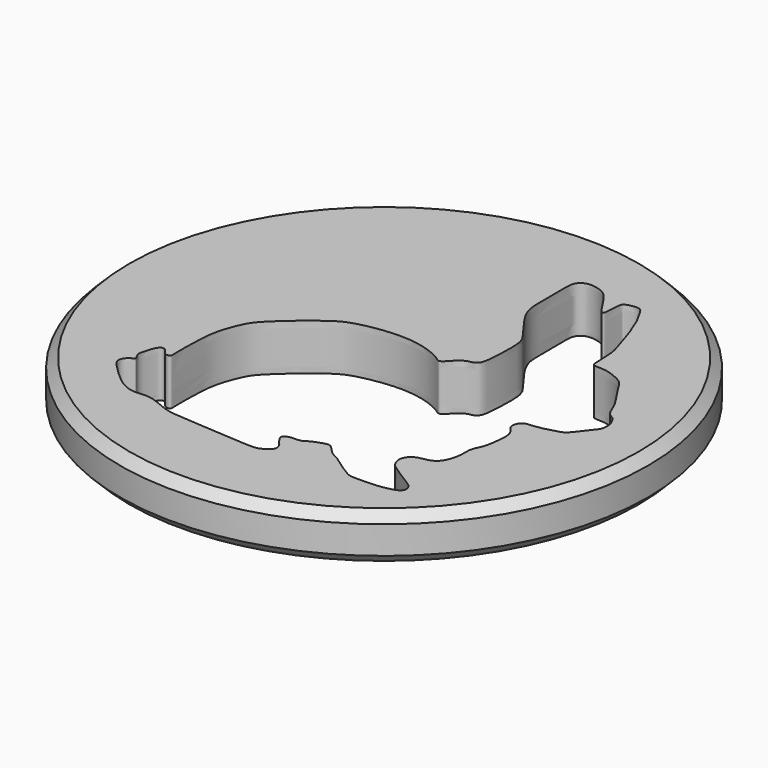
from build123d import *

# Parameters (mm, degrees)
F0_R     = 14.2
F1_DEPTH = 2.5
F2_SIZE  = 0.5


with BuildPart() as f1:
    # F0 (on Top) → F1 (new body)
    with BuildSketch(Plane.XY):
        Circle(F0_R)
        with BuildLine():
            add(Edge.make_bspline(
                [(7.0460953502, 6.8770149718), (6.9044878589, 7.3516803533), (6.4258744256, 8.9402996802), (5.7937089494, 9.9937010475), (5.6332772847, 10.1941804332), (5.3028202, 10.2105653846), (4.8275970632, 10.1016629544), (4.7265061167, 9.8851124141), (4.7069543595, 9.1604331045), (4.657487287, 8.8772576483), (4.409231281, 9.0366827881), (3.8668975646, 10.0108909593), (3.3597579977, 10.5051552777), (2.545117929, 10.649448861), (2.1798180368, 10.4625111998), (1.924879092, 10.1371975921), (2.0054343798, 9.1151731971), (1.9463210751, 8.0011031575), (2.0133556561, 6.9549190885), (2.7426666701, 5.9577932748), (3.3738237794, 5.1420796102), (3.5160482674, 4.8492195945), (3.6563412225, 4.4071926898), (3.5828320093, 2.4942135898), (3.4275336392, 2.141186671), (3.217007801, 1.9702441379), (2.8654086695, 1.966061313), (2.4112760992, 1.5827774615), (2.1872388511, 1.2939551636), (1.9668071112, 1.1656877541), (1.741593107, 1.3742592885), (0.7979370022, 1.8352391819), (-0.8672470428, 2.0745929675), (-2.9251727659, 1.7086678528), (-3.8976916543, 1.2547679716), (-6.040972839, -0.5704007128), (-6.5336277515, -1.2857989207), (-7.0168205048, -2.5619693962), (-7.0953464913, -3.7808321926), (-7.1138225298, -5.1827816791), (-7.0738965695, -5.515864183), (-7.4428367582, -5.5212611781), (-7.6187086413, -5.1175856727), (-7.9979388082, -5.0818020774), (-8.2431260692, -5.9053467023), (-8.3060717985, -6.2679773354), (-8.0135377516, -6.6198691867), (-8.3314615254, -6.6540223163), (-8.7543656929, -7.1841239002), (-8.087820767, -7.8229129648), (-7.2605809253, -8.6241447018), (-6.6453721419, -8.9115478357), (-6.2589580114, -8.9994541443), (-5.6593804202, -8.9135694116), (-5.0327718589, -9.0367116785), (-4.132319782, -9.503197983), (-2.896241527, -9.5529179757), (-1.2856596519, -9.6795434472), (0.4030214672, -9.7924389807), (1.086809112, -9.786999667), (1.4264143171, -9.4886154363), (1.6459862131, -9.329607556), (1.5736958827, -8.9970421521), (1.4018487321, -8.8138535736), (1.1515931213, -8.490725678), (1.0851557705, -8.25459097), (1.4189525307, -8.1032391164), (1.7374344739, -8.1155010174), (2.0594673881, -8.0880165029), (2.2984045705, -7.875420998), (2.9267101668, -7.6557988945), (3.2248980309, -7.6162038995), (3.4354729163, -7.8394252221), (3.616614572, -8.0406260477), (3.8216437121, -8.2127956492), (4.138737628, -8.3383047752), (4.7768030951, -8.8278748262), (5.3235100655, -9.1704362725), (5.574852965, -9.302812246), (6.0294587858, -9.3247094211), (7.2127028265, -9.2947008953), (7.8449627957, -9.1369218736), (8.2273198817, -8.9505683903), (8.1944074382, -8.47841557), (7.6670770453, -8.1888425458), (6.7223134634, -7.5596352705), (6.4149151465, -7.3333212674), (6.2278700167, -6.8895620808), (6.3699826402, -6.4442939526), (6.7859845802, -6.18547275), (7.181839857, -6.1588891657), (7.5927212612, -6.0120143464), (7.900389637, -5.6148568798), (8.0852602162, -4.8870764337), (8.0012955977, -4.2554863705), (8.3290768435, -3.7116939739), (8.427338695, -3.0944535631), (8.517714616, -2.2945510908), (8.3569019546, -1.899570504), (8.034740187, -1.6098632273), (8.0832665239, -1.2645213347), (8.2896833959, -0.9376519652), (8.8962073472, -0.9669512316), (9.7360372684, -0.732357462), (10.0771434563, -0.6377073132), (10.3538049285, -0.4685030714), (10.9547685149, 0.3767217768), (11.1835422646, 0.6140085446), (11.2520646665, 1.0833097326), (11.1141864018, 1.4369926792), (10.9094237171, 1.7755743225), (10.5728314345, 1.835660858), (10.2963764949, 2.6229234651), (10.0350922183, 3.041846666), (9.3771489665, 4.0077601614), (9.1284108898, 4.4803261646), (8.5053226327, 4.7663102799), (7.9729254085, 4.9517283515), (7.3711228719, 4.92539843), (7.2604238751, 5.0207683875), (7.2225013457, 5.2209348194), (7.2093329581, 6.3237957887), (7.1233921921, 6.6179175566), (7.0460953502, 6.8770149718)],
                knots=[0, 0, 0, 0, 0.016024093, 0.0280254804, 0.0329207873, 0.0389889711, 0.0463457356, 0.0514371518, 0.0608091244, 0.0658113535, 0.0704540477, 0.0819084354, 0.0913427598, 0.1007734638, 0.1074341398, 0.1139081795, 0.1246704231, 0.1363742738, 0.1472564684, 0.1594111961, 0.1703284236, 0.1761142505, 0.1835193617, 0.1985087664, 0.205225962, 0.2103510391, 0.2166269419, 0.2249111556, 0.2316151515, 0.2364498451, 0.2418421283, 0.2526255062, 0.2670443731, 0.2823498681, 0.2941102109, 0.3119032421, 0.3223985826, 0.3345206977, 0.347076789, 0.3598202816, 0.3651642287, 0.3706128536, 0.3775388601, 0.3829844006, 0.3925936787, 0.3995241815, 0.4056299419, 0.410600009, 0.4184905987, 0.4282057242, 0.4401668224, 0.4489088323, 0.4555861938, 0.46382265, 0.4724698573, 0.4831874341, 0.4951717693, 0.5092566262, 0.5234143206, 0.5321177265, 0.5390992916, 0.544446897, 0.550242183, 0.555852199, 0.5627879991, 0.5675582686, 0.5735473558, 0.5798631524, 0.5857663166, 0.5919127701, 0.600742621, 0.6065105509, 0.6122078503, 0.6179311812, 0.6233697903, 0.6296184143, 0.6394591696, 0.648229017, 0.6537082566, 0.6608656298, 0.6727590783, 0.6817239205, 0.6881915557, 0.6946434919, 0.7030435987, 0.7146283448, 0.7213999282, 0.7285077624, 0.7356542966, 0.7429924176, 0.7498255911, 0.7567669264, 0.7642938854, 0.7736198764, 0.7822051153, 0.790545868, 0.7992593858, 0.8088912578, 0.8158805757, 0.8226859616, 0.8287566424, 0.8349599849, 0.843237758, 0.8534705737, 0.8597350254, 0.86585128, 0.8767880663, 0.8832557018, 0.8903077017, 0.8970942121, 0.9036146132, 0.909551334, 0.9189532137, 0.9271389148, 0.9386599937, 0.9466950134, 0.9552957927, 0.9637930407, 0.9719366219, 0.9755284342, 0.9801933605, 0.9912532044, 1, 1, 1, 1], degree=3))
        make_face(mode=Mode.SUBTRACT)
    extrude(amount=F1_DEPTH)

    # F2
    f2_edges = [f1.edges().sort_by_distance(p)[0] for p in [
        (-14.2, 0, 0),
        (-14.2, 0, 2.5),
    ]]
    chamfer(f2_edges, length=F2_SIZE)


solid = f1.part
